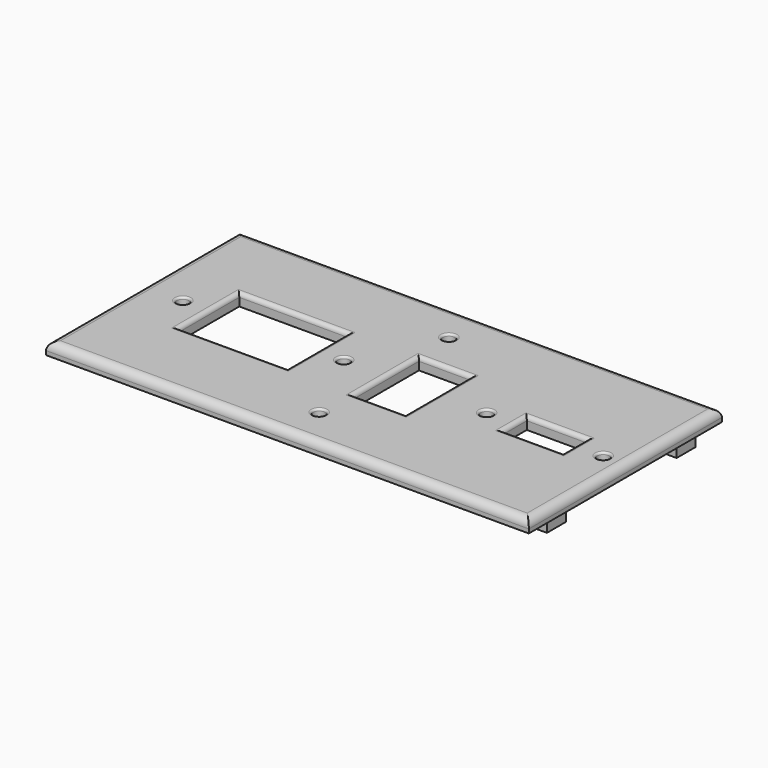
from build123d import *

# Parameters (mm, degrees)
F0_W     = 120
F0_H     = 60
F0_W_2   = 10
F0_H_2   = 5.9
F0_W_3   = 12.032848
F0_H_3   = 6.009796
F0_R     = 1.5
F0_W_4   = 27
F0_H_4   = 18.8
F0_W_5   = 12.95
F0_H_5   = 20.4
F0_W_6   = 15
F0_H_6   = 7.5
F1_DEPTH = 3
F2_R     = 2
F3_R     = 1
F4_R     = 0.5
F5_DEPTH = 3


with BuildPart() as f1:
    # F0 (on Top) → F1 (new body)
    with BuildSketch(Plane.XY):
        Rectangle(F0_W, F0_H)
        with Locations((-53.983576, -20.15)):
            Rectangle(F0_W_2, F0_H_2, mode=Mode.SUBTRACT)
        with Locations((-15, -20.15)):
            Rectangle(F0_W_3, F0_H_3, mode=Mode.SUBTRACT)
        with Locations((0, -20.15)):
            Circle(F0_R, mode=Mode.SUBTRACT)
        with Locations((15, -20.15)):
            Rectangle(F0_W_3, F0_H_3, mode=Mode.SUBTRACT)
        with Locations((53.983576, -20.15)):
            Rectangle(F0_W_2, F0_H_2, mode=Mode.SUBTRACT)
        with Locations((-50, 0)):
            Circle(F0_R, mode=Mode.SUBTRACT)
        with Locations((-30, 0)):
            Rectangle(F0_W_4, F0_H_4, mode=Mode.SUBTRACT)
        with Locations((-10, 0)):
            Circle(F0_R, mode=Mode.SUBTRACT)
        with Locations((-53.983576, 20.15)):
            Rectangle(F0_W_2, F0_H_2, mode=Mode.SUBTRACT)
        with Locations((-15, 20.15)):
            Rectangle(F0_W_3, F0_H_3, mode=Mode.SUBTRACT)
        with Locations((7, 0)):
            Rectangle(F0_W_5, F0_H_5, mode=Mode.SUBTRACT)
        with Locations((25.5, 0)):
            Circle(F0_R, mode=Mode.SUBTRACT)
        with Locations((40, 0)):
            Rectangle(F0_W_6, F0_H_6, mode=Mode.SUBTRACT)
        with Locations((54.5, 0)):
            Circle(F0_R, mode=Mode.SUBTRACT)
        with Locations((0, 20.15)):
            Circle(F0_R, mode=Mode.SUBTRACT)
        with Locations((15, 20.15)):
            Rectangle(F0_W_3, F0_H_3, mode=Mode.SUBTRACT)
        with Locations((53.983576, 20.15)):
            Rectangle(F0_W_2, F0_H_2, mode=Mode.SUBTRACT)
        with Locations((-15, 20.15)):
            Rectangle(F0_W_3, F0_H_3)
        with Locations((15, 20.15)):
            Rectangle(F0_W_3, F0_H_3)
        with Locations((15, -20.15)):
            Rectangle(F0_W_3, F0_H_3)
        with Locations((-15, -20.15)):
            Rectangle(F0_W_3, F0_H_3)
        with Locations((-53.983576, 20.15)):
            Rectangle(F0_W_2, F0_H_2)
        with Locations((-53.983576, -20.15)):
            Rectangle(F0_W_2, F0_H_2)
        with Locations((53.983576, -20.15)):
            Rectangle(F0_W_2, F0_H_2)
        with Locations((53.983576, 20.15)):
            Rectangle(F0_W_2, F0_H_2)
    extrude(amount=F1_DEPTH)

    # F2
    f2_edges = [f1.edges().sort_by_distance(p)[0] for p in [
        (0, -30, 3),
        (0, 30, 3),
        (-60, 0, 3),
        (60, 0, 3),
    ]]
    fillet(f2_edges, radius=F2_R)

    # F3
    f3_edges = [f1.edges().sort_by_distance(p)[0] for p in [
        (47.5, 0, 3),
        (32.5, 0, 3),
        (40, 3.75, 3),
        (40, -3.75, 3),
        (-30, 9.4, 3),
        (-30, -9.4, 3),
        (-43.5, 0, 3),
        (-16.5, 0, 3),
        (13.475, 0, 3),
        (0.525, 0, 3),
        (7, 10.2, 3),
        (7, -10.2, 3),
    ]]
    fillet(f3_edges, radius=F3_R)

    # F4
    f4_edges = [f1.edges().sort_by_distance(p)[0] for p in [
        (-51.5, 0, 3),
        (-11.5, 0, 3),
        (24, 0, 3),
        (53, 0, 3),
        (-1.5, -20.15, 3),
        (-1.5, 20.15, 3),
    ]]
    fillet(f4_edges, radius=F4_R)

    # F0 (on Top) → F5 (join)
    with BuildSketch(Plane.XY):
        with Locations((53.983576, 20.15)):
            Rectangle(F0_W_2, F0_H_2)
        with Locations((15, 20.15)):
            Rectangle(F0_W_3, F0_H_3)
        with Locations((-15, 20.15)):
            Rectangle(F0_W_3, F0_H_3)
        with Locations((-53.983576, 20.15)):
            Rectangle(F0_W_2, F0_H_2)
        with Locations((-53.983576, -20.15)):
            Rectangle(F0_W_2, F0_H_2)
        with Locations((-15, -20.15)):
            Rectangle(F0_W_3, F0_H_3)
        with Locations((15, -20.15)):
            Rectangle(F0_W_3, F0_H_3)
        with Locations((53.983576, -20.15)):
            Rectangle(F0_W_2, F0_H_2)
    extrude(amount=-F5_DEPTH)


solid = f1.part
